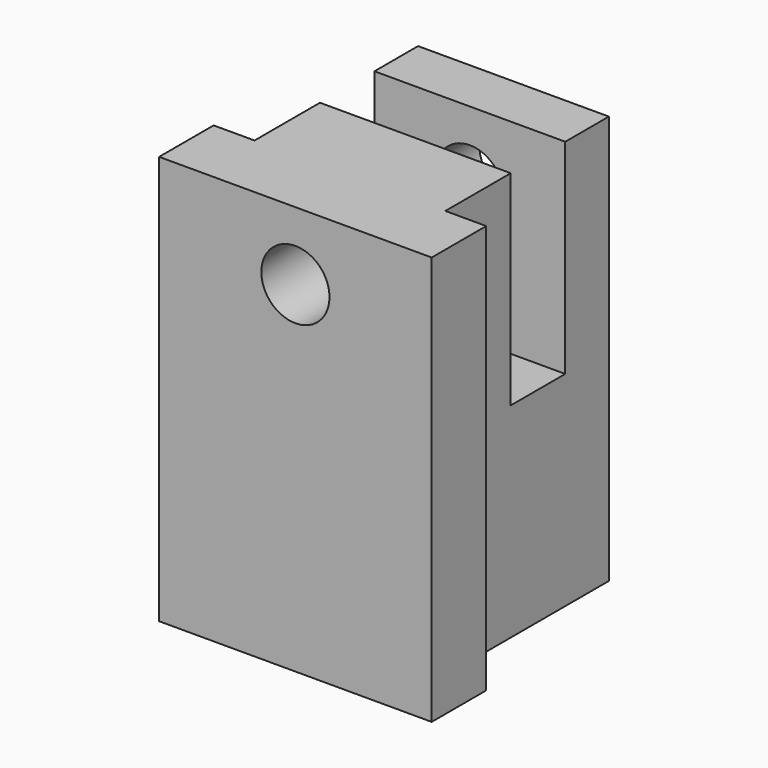
from build123d import *

# Parameters (mm, degrees)
F0_W     = 14
F0_H     = 4
F0_H_2   = 5
F1_DEPTH = 30
F2_W     = 14
F2_H     = 5
F3_DEPTH = 15
F4_R     = 2.5
F5_DEPTH = 25


with BuildPart() as f1:
    # F0 (on Top) → F1 (new body)
    with BuildSketch(Plane.XY):
        with Locations((0, 18)):
            Rectangle(F0_W, F0_H)
        with Locations((0, 13.5)):
            Rectangle(F0_W, F0_H_2)
        Polygon((-10, 5), (-10, 0), (10, 0), (10, 5), (7, 5), (7, 11), (-7, 11), (-7, 5), align=None)
    extrude(amount=-F1_DEPTH)

    # F2 (on face) → F3 (cut)
    with BuildSketch(Plane.XY):
        with Locations((0, 13.5)):
            Rectangle(F2_W, F2_H)
    extrude(amount=-F3_DEPTH, mode=Mode.SUBTRACT)

    # F4 (on face) → F5 (cut)
    with BuildSketch(Plane(origin=(0, 20, 0), x_dir=(-1, 0, 0), z_dir=(0, 1, 0))):
        with Locations((0, -5)):
            Circle(F4_R)
    extrude(amount=-F5_DEPTH, mode=Mode.SUBTRACT)


solid = f1.part
